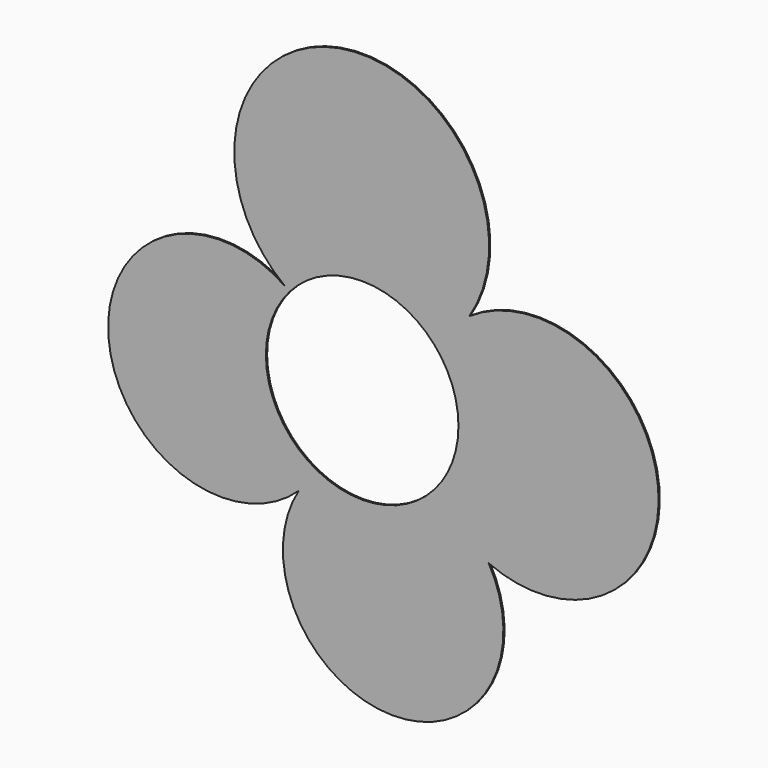
from build123d import *

# Parameters (mm, degrees)
F1_DEPTH = 0.1


with BuildPart() as f1:
    # F0 (on Front) → F1 (new body)
    with BuildSketch(Plane.XZ):
        with BuildLine():
            ThreePointArc((4.8052448645, 4.2392099088), (5.9938653468, 2.2660223), (6.4079075258, 0))
            ThreePointArc((6.4079075258, 0), (5.9938653468, -2.2660223), (4.8052448645, -4.2392099088))
            ThreePointArc((4.8052448645, -4.2392099088), (6.8764974545, -5.5075560727), (8.4202976896, -7.38251477))
            ThreePointArc((8.4202976896, -7.38251477), (19.6961982172, 0.7329368237), (7.1375086194, 6.6731222471))
            ThreePointArc((7.1375086194, 6.6731222471), (6.0935080211, 5.3391354228), (4.8052448645, 4.2392099088))
        make_face()
        with BuildLine():
            ThreePointArc((7.1375086194, 6.6731222471), (5.8427804889, 5.5793917075), (4.8052448645, 4.2392099088))
            ThreePointArc((4.8052448645, 4.2392099088), (6.0935080211, 5.3391354228), (7.1375086194, 6.6731222471))
        make_face()
        with BuildLine():
            ThreePointArc((-4.8283466328, 4.2128787845), (-0.0175144213, 6.4078835901), (4.8052448645, 4.2392099088))
            ThreePointArc((4.8052448645, 4.2392099088), (5.8427804889, 5.5793917075), (7.1375086194, 6.6731222471))
            ThreePointArc((7.1375086194, 6.6731222471), (-1.5477052479, 19.5526553507), (-5.1442647229, 4.4404062517))
            ThreePointArc((-5.1442647229, 4.4404062517), (-4.9848340595, 4.3286858356), (-4.8283466328, 4.2128787845))
        make_face()
        with BuildLine():
            ThreePointArc((8.4202976896, -7.38251477), (6.3739752542, -6.0854969279), (4.8052448645, -4.2392099088))
            ThreePointArc((4.8052448645, -4.2392099088), (1.1757337965, -6.2991212799), (-2.9524774752, -5.6871922438))
            ThreePointArc((-2.9524774752, -5.6871922438), (-3.534399564, -6.5137001688), (-4.2218378667, -7.2547651103))
            ThreePointArc((-4.2218378667, -7.2547651103), (1.9874253454, -18.3828453768), (8.4202976896, -7.38251477))
        make_face()
        with BuildLine():
            ThreePointArc((8.4202976896, -7.38251477), (6.8764974545, -5.5075560727), (4.8052448645, -4.2392099088))
            ThreePointArc((4.8052448645, -4.2392099088), (6.3739752542, -6.0854969279), (8.4202976896, -7.38251477))
        make_face()
        with BuildLine():
            ThreePointArc((-2.9524774752, -5.6871922438), (-6.2958841747, -1.1929464859), (-4.8283466328, 4.2128787845))
            ThreePointArc((-4.8283466328, 4.2128787845), (-4.9876113011, 4.324829682), (-5.1442647229, 4.4404062517))
            ThreePointArc((-5.1442647229, 4.4404062517), (-16.8849803616, -2.3695755088), (-4.2218378667, -7.2547651103))
            ThreePointArc((-4.2218378667, -7.2547651103), (-3.6412753486, -6.427156257), (-2.9524774752, -5.6871922438))
        make_face()
        with BuildLine():
            ThreePointArc((-5.1442647229, 4.4404062517), (-4.9876113011, 4.324829682), (-4.8283466328, 4.2128787845))
            ThreePointArc((-4.8283466328, 4.2128787845), (-4.9848340595, 4.3286858356), (-5.1442647229, 4.4404062517))
        make_face()
        with BuildLine():
            ThreePointArc((-4.2218378667, -7.2547651103), (-3.534399564, -6.5137001688), (-2.9524774752, -5.6871922438))
            ThreePointArc((-2.9524774752, -5.6871922438), (-3.6412753486, -6.427156257), (-4.2218378667, -7.2547651103))
        make_face()
    extrude(amount=F1_DEPTH)


solid = f1.part
